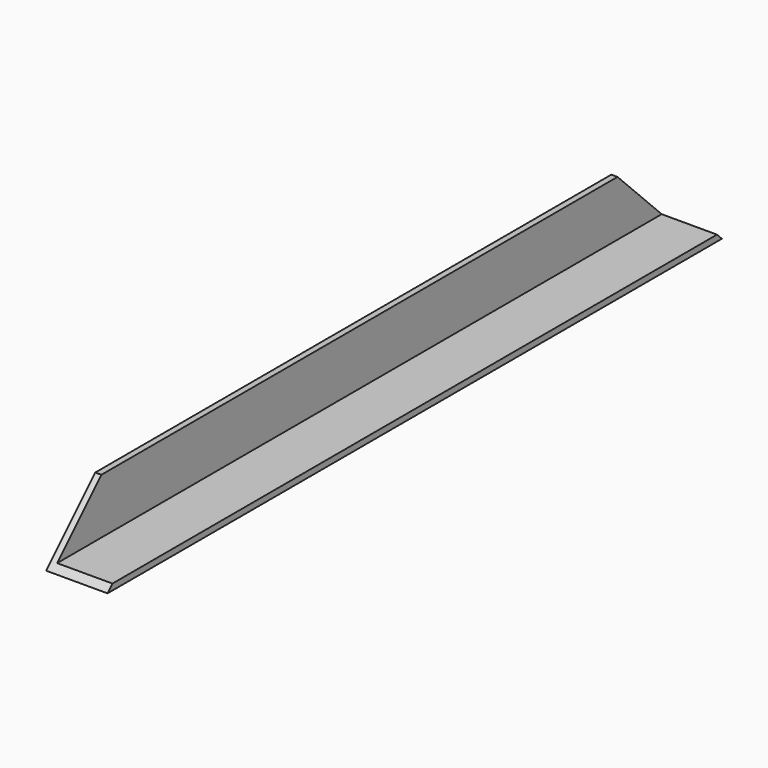
from build123d import *

# Parameters (mm, degrees)
F1_DEPTH = 125
F3_DEPTH = 20.001


with BuildPart() as f1:
    # F0 (on Front) → F1 (new body, symmetric)
    with BuildSketch(Plane.XZ):
        Polygon((0, 20), (0, 0), (20, 0), (20, 2), (2, 2), (2, 20), align=None)
    extrude(amount=F1_DEPTH, both=True)

    # F2 (on face) → F3 (cut, through all)
    with BuildSketch(Plane(origin=(0, 0, 0), x_dir=(0, -1, 0), z_dir=(-1, 0, 0))):
        Polygon((-125, 20), (-125, 0), (-105, 20), align=None)
        Polygon((125, 0), (125, 20), (105, 20), align=None)
    extrude(amount=-F3_DEPTH, mode=Mode.SUBTRACT)


with BuildPart() as f4_1:
    # F4: copy of F1
    add(f1.part)


solid = f4_1.part
